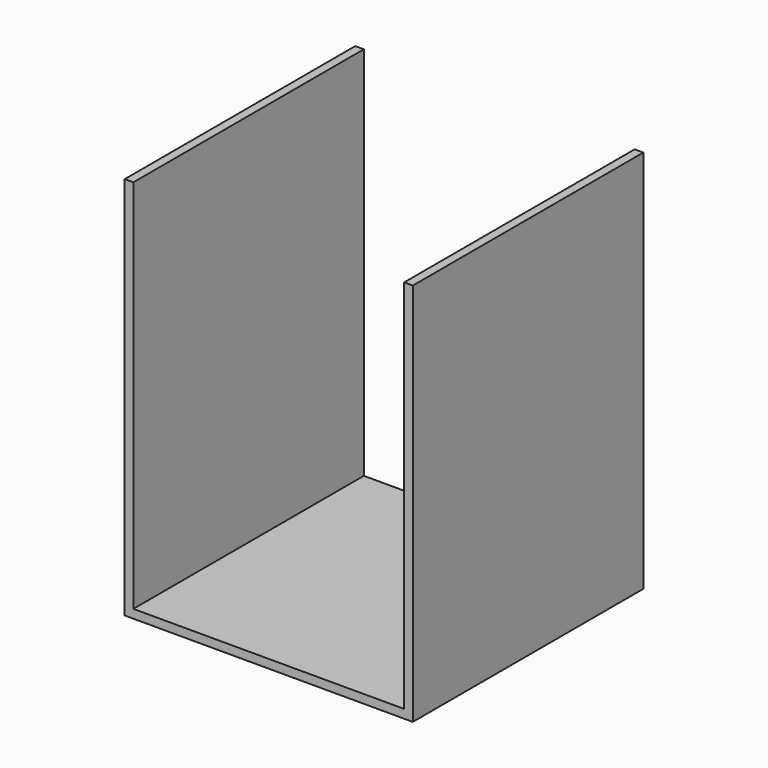
from build123d import *

# Parameters (mm, degrees)
F0_W     = 50.3577142954
F0_H     = 47.1017286181
F1_DEPTH = 800
F2_DEPTH = 600
F3_DEPTH = 600
F4_T     = -18
F5_DEPTH = 80
F6_DEPTH = 25
F7_DEPTH = 80


with BuildPart() as f1:
    # F0 (on Top) → F1 (new body)
    with BuildSketch(Plane.XY):
        with Locations((25.1788571477, -23.5508643091)):
            Rectangle(F0_W, F0_H)
    extrude(amount=F1_DEPTH)

    # F2 (add): a face of the model
    f2_faces = [f1.faces().sort_by_distance(p)[0] for p in [
        (0, -23.5508643091, 400),
    ]]
    extrude(f2_faces, amount=-F2_DEPTH)

    # F3 (add): a face of the model
    f3_faces = [f1.faces().sort_by_distance(p)[0] for p in [
        (300, -47.1017286181, 400),
    ]]
    extrude(f3_faces, amount=-F3_DEPTH)

    # F4
    f4_openings = [f1.faces().sort_by_distance(p)[0] for p in [
        (300, 252.898271, 800),
        (300, -47.101729, 400),
    ]]
    offset(amount=F4_T, openings=f4_openings)

    # F5 (add): a face of the model
    f5_faces = [f1.faces().sort_by_distance(p)[0] for p in [
        (9, -38.6164472439, 800),
    ]]
    extrude(f5_faces, amount=F5_DEPTH)

    # F6 (cut): a face of the model
    f6_faces = [f1.faces().sort_by_distance(p)[0] for p in [
        (300, 534.8982713819, 449),
    ]]
    extrude(f6_faces, amount=-F6_DEPTH, mode=Mode.SUBTRACT)

    # F7 (cut): faces of the model
    f7_faces = [f1.faces().sort_by_distance(p)[0] for p in [
        (591, 252.8982713819, 880),
        (9, 252.8982713819, 880),
    ]]
    extrude(f7_faces, amount=-F7_DEPTH, mode=Mode.SUBTRACT)


solid = f1.part
